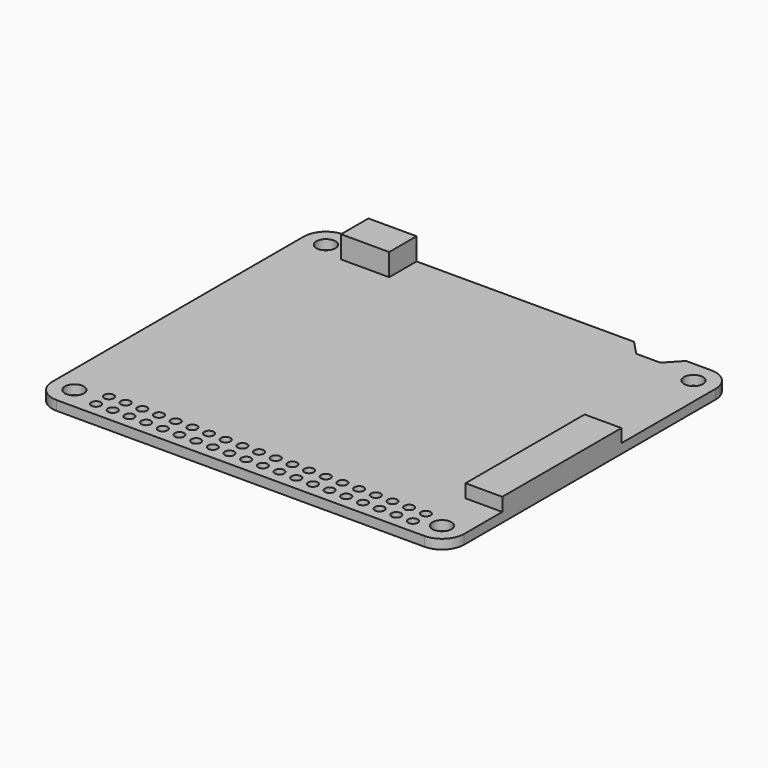
from build123d import *

# Parameters (mm, degrees)
SKETCH_R               = 1.5
PAD_DEPTH              = 1.5
SKETCH001_W            = 7.6
SKETCH001_H            = 5.4
PAD001_DEPTH           = 5
SKETCH002_R            = 0.75
POCKET_DEPTH           = 5
LINEARPATTERN_COUNT    = 20
LINEARPATTERN_PITCH    = 2.631579
SKETCH003_W            = 5.8
SKETCH003_H            = 23.5
PAD002_DEPTH           = 3.6
SKETCH004_W            = 1
SKETCH004_H            = 4.803365
PAD003_DEPTH           = 0.1
LINEARPATTERN001_COUNT = 8
LINEARPATTERN001_PITCH = 2


with BuildPart() as part:
    # Sketch → Pad (new body)
    with BuildSketch(Plane.XY):
        with BuildLine():
            ThreePointArc((-29, 28.300075), (-31.474874, 27.274949), (-32.5, 24.800075))
            Line((-32.5, -24.800075), (-32.5, 24.800075))
            ThreePointArc((-32.5, -24.800075), (-31.474874, -27.274949), (-29, -28.300075))
            Line((29, -28.300075), (-29, -28.300075))
            ThreePointArc((29, -28.300075), (31.474874, -27.274949), (32.5, -24.800075))
            Line((32.5, 24.8), (32.5, -24.800075))
            ThreePointArc((32.5, 24.8), (31.482971, 27.26675), (29.02294, 28.299925))
            Line((25.02294, 28.300075), (29.02294, 28.299925))
            Line((22.820979, 25.968397), (25.02294, 28.300075))
            Line((19.017574, 25.968397), (22.820979, 25.968397))
            Line((16.815613, 28.300075), (19.017574, 25.968397))
            Line((-29, 28.300075), (16.815613, 28.300075))
        make_face()
        with Locations((-29, 24.800075)):
            Circle(SKETCH_R, mode=Mode.SUBTRACT)
        with Locations((29, 24.8)):
            Circle(SKETCH_R, mode=Mode.SUBTRACT)
        with Locations((29, -24.800075)):
            Circle(SKETCH_R, mode=Mode.SUBTRACT)
        with Locations((-29, -24.800075)):
            Circle(SKETCH_R, mode=Mode.SUBTRACT)
    extrude(amount=PAD_DEPTH)

    # Sketch001 → Pad001 (join)
    with BuildSketch(Plane.XY):
        with Locations((-21.3, 25.600075)):
            Rectangle(SKETCH001_W, SKETCH001_H)
    extrude(amount=PAD001_DEPTH)

    # Sketch002 → Pocket (cut)
    with BuildSketch(Plane.XY):
        with Locations((-24.571527, -23.530075)):
            Circle(SKETCH002_R)
        with Locations((-24.571527, -26.070075)):
            Circle(SKETCH002_R)
    pocket = extrude(amount=POCKET_DEPTH, mode=Mode.SUBTRACT)

    # LinearPattern: Pocket ×20
    with Locations(*[(i * LINEARPATTERN_PITCH, 0, 0) for i in range(1, LINEARPATTERN_COUNT)]):
        add(pocket, mode=Mode.SUBTRACT)

    # Sketch003 → Pad002 (join)
    with BuildSketch(Plane.XY):
        with Locations((29.6, -5.550075)):
            Rectangle(SKETCH003_W, SKETCH003_H)
    extrude(amount=PAD002_DEPTH)

    # Sketch004 (on Face66 of Pad002) → Pad003 (join)
    with BuildSketch(Plane(origin=(0, 0, 0), x_dir=(1, 0, 0), z_dir=(0, 0, -1))):
        with Locations((-6.72, -22.001758)):
            Rectangle(SKETCH004_W, SKETCH004_H)
    pad003 = extrude(amount=PAD003_DEPTH)

    # LinearPattern001: Pad003 ×8
    with Locations(*[(i * LINEARPATTERN001_PITCH, 0, 0) for i in range(1, LINEARPATTERN001_COUNT)]):
        add(pad003)


solid = part.part
